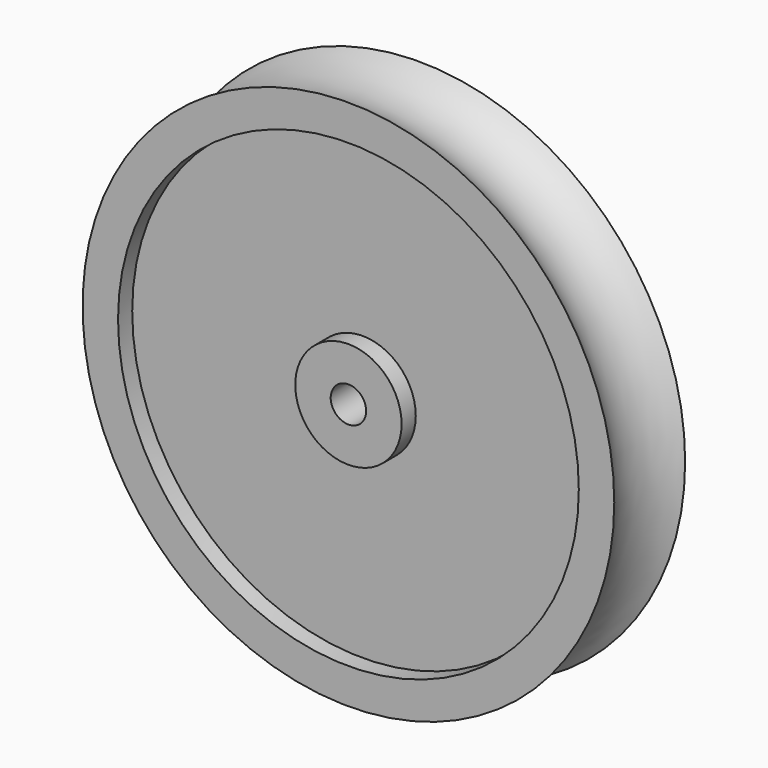
from build123d import *


with BuildPart() as f1:
    # F0 (on Top) → F1 (revolve)
    with BuildSketch(Plane.XY):
        with BuildLine():
            Line((30, 25), (10, 25))
            Line((10, 25), (10, 0))
            Line((10, 0), (10, -25))
            Line((10, -25), (30, -25))
            Line((30, -25), (30, -15))
            Line((30, -15), (130, -15))
            Line((130, -15), (130, -25))
            Line((130, -25), (150, -25))
            ThreePointArc((150, -25), (137.990559, 0), (150, 25))
            Line((150, 25), (130, 25))
            Line((130, 25), (130, 15))
            Line((130, 15), (30, 15))
            Line((30, 15), (30, 25))
        make_face()
    revolve(axis=Axis((0, -2.328163, 0), (0, -1, 0)))


solid = f1.part
